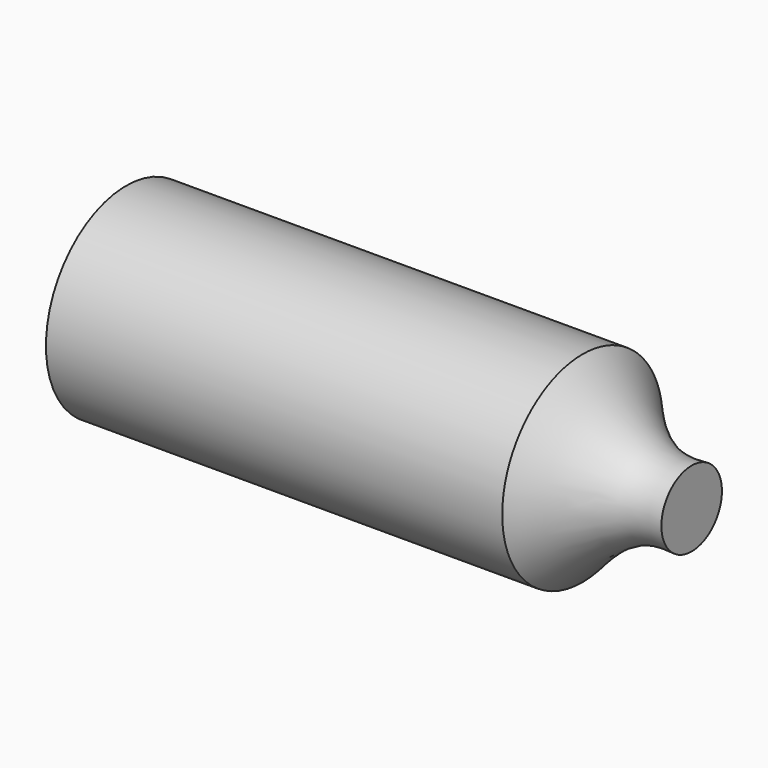
from build123d import *

# Parameters (mm, degrees)
F0_R     = 39.7624392978
F1_DEPTH = 112


with BuildPart() as f1:
    # F0 (on Right) → F1 (new body, symmetric)
    with BuildSketch(Plane.YZ):
        Circle(F0_R)
    extrude(amount=F1_DEPTH, both=True)

    # F2 (on Top) → F3 (revolve, cut)
    with BuildSketch(Plane.XY):
        with BuildLine():
            add(Edge.make_bspline(
                [(122.2966685891, 16.5707357228), (113.6758671842, 14.9968024794), (94.0255983117, 11.409176461), (75.3595947229, 32.3544723477), (64.8825839162, 44.1108234227)],
                knots=[0, 0, 0, 0, 0.4387116258, 1, 1, 1, 1], degree=3))
            Line((122.2966685891, 16.5707357228), (122.2966685891, 44.1108234227))
            Line((122.2966685891, 44.1108234227), (64.8825839162, 44.1108234227))
        make_face()
    revolve(axis=Axis((65.8161491156, 0, 0), (1, 0, 0)), mode=Mode.SUBTRACT)


solid = f1.part
